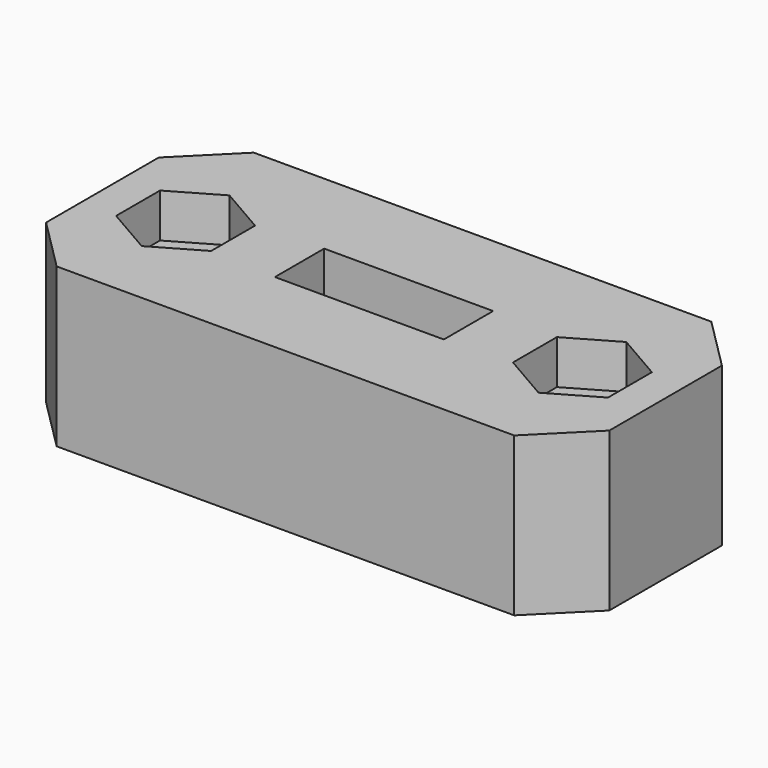
from build123d import *

# Parameters (mm, degrees)
F0_W     = 32
F0_H     = 14
F0_R     = 1.6
F0_W_2   = 9.6
F0_H_2   = 3.5
F1_DEPTH = 9
F2_SIZE  = 3
F4_DEPTH = 2.5


with BuildPart() as f1:
    # F0 (on Top) → F1 (new body)
    with BuildSketch(Plane.XY):
        with Locations((0, 2.05)):
            Rectangle(F0_W, F0_H)
        with Locations((-11.274233, 2.05)):
            Circle(F0_R, mode=Mode.SUBTRACT)
        with Locations((0, 2.05)):
            Rectangle(F0_W_2, F0_H_2, mode=Mode.SUBTRACT)
        with Locations((11.274233, 2.05)):
            Circle(F0_R, mode=Mode.SUBTRACT)
    extrude(amount=F1_DEPTH)

    # F2
    f2_edges = [f1.edges().sort_by_distance(p)[0] for p in [
        (-16, -4.95, 4.5),
        (16, -4.95, 4.5),
        (16, 9.05, 4.5),
        (-16, 9.05, 4.5),
    ]]
    chamfer(f2_edges, length=F2_SIZE)

    # F3 (on face) → F4 (cut)
    with BuildSketch(Plane.XY.offset(9)):
        Polygon((-8.574233, 0.491154), (-8.574233, 3.608846), (-11.274233, 5.167691), (-13.974233, 3.608846), (-13.974233, 0.491154), (-11.274233, -1.067691), align=None)
        Polygon((13.974233, 0.491154), (13.974233, 3.608846), (11.274233, 5.167691), (8.574233, 3.608846), (8.574233, 0.491154), (11.274233, -1.067691), align=None)
    extrude(amount=-F4_DEPTH, mode=Mode.SUBTRACT)


solid = f1.part
